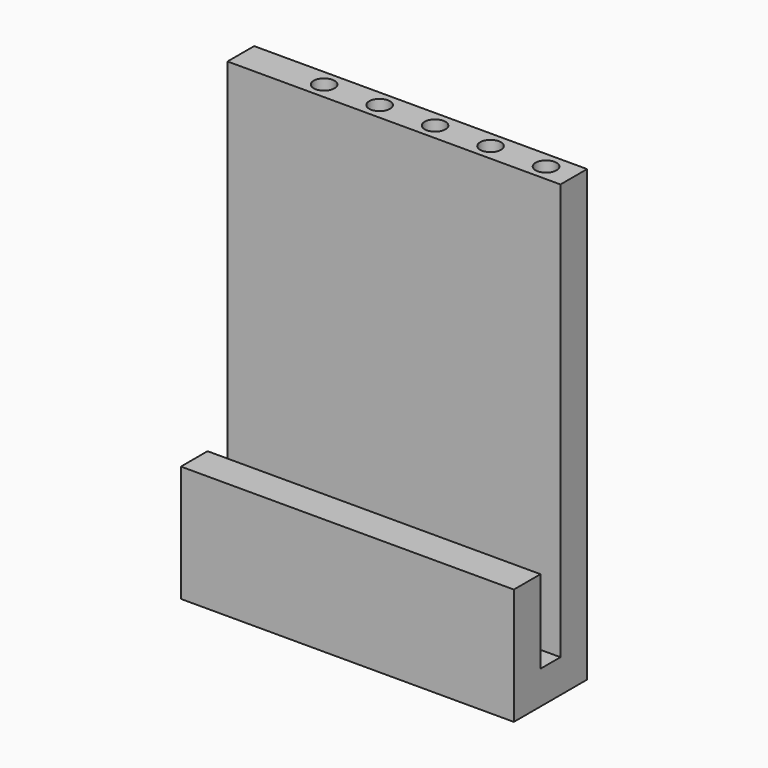
from build123d import *

# Parameters (mm, degrees)
F1_DEPTH = 60
F3_DEPTH = 9
F4_R     = 1.875
F5_DEPTH = 10


with BuildPart() as f1:
    # F0 (on Right) → F1 (new body)
    with BuildSketch(Plane.YZ):
        Polygon((-0.522294, -6.121146), (-0.522294, -27.121146), (15.977706, -27.121146), (15.977706, 53.878854), (9.977706, 53.878854), (9.977706, -21.121146), (5.477706, -21.121146), (5.477706, -6.121146), align=None)
    extrude(amount=F1_DEPTH)

    # F2 (on face) → F3 (cut)
    with BuildSketch(Plane(origin=(0, 0, 0), x_dir=(0, -1, 0), z_dir=(-1, 0, 0))):
        with BuildLine():
            Line((-12.977706, 43.878854), (-12.977706, 45.753854))
            ThreePointArc((-12.977706, 45.753854), (-14.852706, 43.878854), (-12.977706, 42.003854))
            Line((-12.977706, 42.003854), (-12.977706, 43.878854))
        make_face()
        with BuildLine():
            ThreePointArc((-12.977706, 42.003854), (-11.651881, 42.553028), (-11.102706, 43.878854))
            ThreePointArc((-11.102706, 43.878854), (-11.651881, 45.204679), (-12.977706, 45.753854))
            Line((-12.977706, 45.753854), (-12.977706, 43.878854))
            Line((-12.977706, 43.878854), (-12.977706, 42.003854))
        make_face()
        with BuildLine():
            Line((-12.977706, 23.878854), (-12.977706, 25.753854))
            ThreePointArc((-12.977706, 25.753854), (-14.852706, 23.878854), (-12.977706, 22.003854))
            Line((-12.977706, 22.003854), (-12.977706, 23.878854))
        make_face()
        with BuildLine():
            ThreePointArc((-11.102706, 23.878854), (-11.651881, 25.204679), (-12.977706, 25.753854))
            Line((-12.977706, 25.753854), (-12.977706, 23.878854))
            Line((-12.977706, 23.878854), (-12.977706, 22.003854))
            ThreePointArc((-12.977706, 22.003854), (-11.651881, 22.553028), (-11.102706, 23.878854))
        make_face()
        with BuildLine():
            Line((-12.977706, 2.878854), (-12.977706, 4.753854))
            ThreePointArc((-12.977706, 4.753854), (-14.852706, 2.878854), (-12.977706, 1.003854))
            Line((-12.977706, 1.003854), (-12.977706, 2.878854))
        make_face()
        with BuildLine():
            ThreePointArc((-11.102706, 2.878854), (-11.651881, 4.204679), (-12.977706, 4.753854))
            Line((-12.977706, 4.753854), (-12.977706, 2.878854))
            Line((-12.977706, 2.878854), (-12.977706, 1.003854))
            ThreePointArc((-12.977706, 1.003854), (-11.651881, 1.553028), (-11.102706, 2.878854))
        make_face()
        with BuildLine():
            Line((-12.977706, -17.121146), (-12.977706, -15.246146))
            ThreePointArc((-12.977706, -15.246146), (-14.852706, -17.121146), (-12.977706, -18.996146))
            Line((-12.977706, -18.996146), (-12.977706, -17.121146))
        make_face()
        with BuildLine():
            ThreePointArc((-11.102706, -17.121146), (-11.651881, -15.795321), (-12.977706, -15.246146))
            Line((-12.977706, -15.246146), (-12.977706, -17.121146))
            Line((-12.977706, -17.121146), (-12.977706, -18.996146))
            ThreePointArc((-12.977706, -18.996146), (-11.651881, -18.446972), (-11.102706, -17.121146))
        make_face()
    extrude(amount=-F3_DEPTH, mode=Mode.SUBTRACT)

    # F4 (on face) → F5 (cut)
    with BuildSketch(Plane.XY.offset(53.878854)):
        with BuildLine():
            ThreePointArc((43.125, 12.977706), (45, 11.102706), (46.875, 12.977706))
            Line((46.875, 12.977706), (45, 12.977706))
            Line((45, 12.977706), (43.125, 12.977706))
        make_face()
        with BuildLine():
            ThreePointArc((56.875, 12.977706), (55, 14.852706), (53.125, 12.977706))
            Line((53.125, 12.977706), (55, 12.977706))
            Line((55, 12.977706), (56.875, 12.977706))
        make_face()
        with BuildLine():
            Line((55, 12.977706), (53.125, 12.977706))
            ThreePointArc((53.125, 12.977706), (55, 11.102706), (56.875, 12.977706))
            Line((56.875, 12.977706), (55, 12.977706))
        make_face()
        with BuildLine():
            Line((45, 12.977706), (46.875, 12.977706))
            ThreePointArc((46.875, 12.977706), (45, 14.852706), (43.125, 12.977706))
            Line((43.125, 12.977706), (45, 12.977706))
        make_face()
        with Locations((15, 12.977706)):
            Circle(F4_R)
        with BuildLine():
            ThreePointArc((23.125, 12.977706), (25, 11.102706), (26.875, 12.977706))
            Line((26.875, 12.977706), (25, 12.977706))
            Line((25, 12.977706), (23.125, 12.977706))
        make_face()
        with BuildLine():
            Line((25, 12.977706), (26.875, 12.977706))
            ThreePointArc((26.875, 12.977706), (25, 14.852706), (23.125, 12.977706))
            Line((23.125, 12.977706), (25, 12.977706))
        make_face()
        with BuildLine():
            ThreePointArc((33.125, 12.977706), (35, 11.102706), (36.875, 12.977706))
            Line((36.875, 12.977706), (35, 12.977706))
            Line((35, 12.977706), (33.125, 12.977706))
        make_face()
        with BuildLine():
            Line((35, 12.977706), (36.875, 12.977706))
            ThreePointArc((36.875, 12.977706), (35, 14.852706), (33.125, 12.977706))
            Line((33.125, 12.977706), (35, 12.977706))
        make_face()
    extrude(amount=-F5_DEPTH, mode=Mode.SUBTRACT)


solid = f1.part
